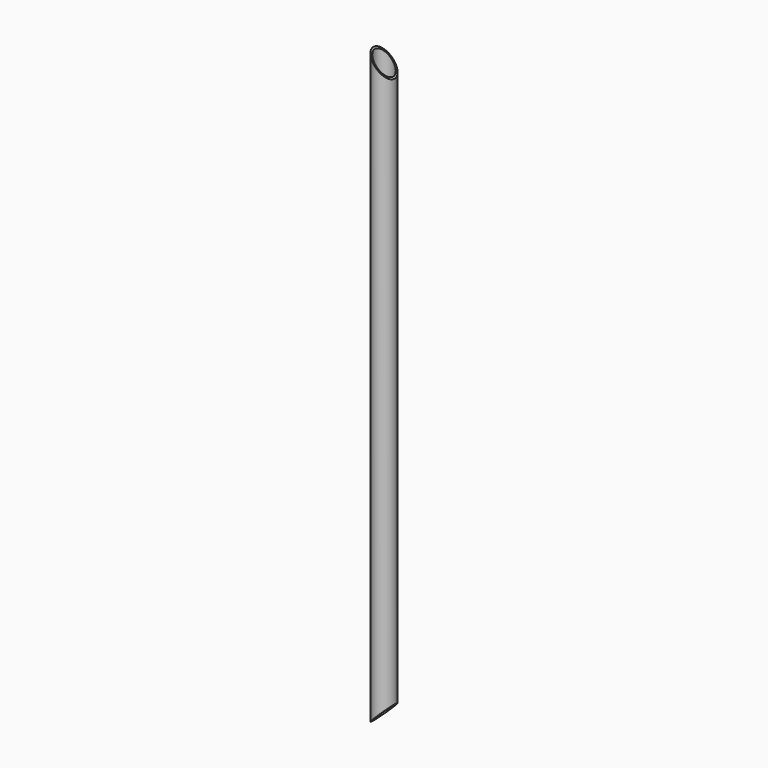
from build123d import *

# Parameters (mm, degrees)
F0_R     = 30.226
F0_R_2   = 26.2509
F1_DEPTH = 1695.45
F3_DEPTH = 103.124
F5_DEPTH = 124.968


with BuildPart() as f1:
    # F0 (on Top) → F1 (new body)
    with BuildSketch(Plane.XY):
        with Locations((-125.815094, -56.057207)):
            Circle(F0_R)
        with Locations((-125.815094, -56.057207)):
            Circle(F0_R_2, mode=Mode.SUBTRACT)
    extrude(amount=F1_DEPTH)

    # F2 (on Front) → F3 (cut)
    with BuildSketch(Plane.XZ):
        Polygon((-89.987062, 69.129817), (-159.116879, 0), (-88.816114, 0), align=None)
    extrude(amount=F3_DEPTH, mode=Mode.SUBTRACT)

    # F4 (on Front) → F5 (cut)
    with BuildSketch(Plane.XZ):
        Polygon((-93.407938, 1702.409625), (-163.886861, 1702.409625), (-93.407938, 1631.930702), align=None)
    extrude(amount=F5_DEPTH, mode=Mode.SUBTRACT)


solid = f1.part
